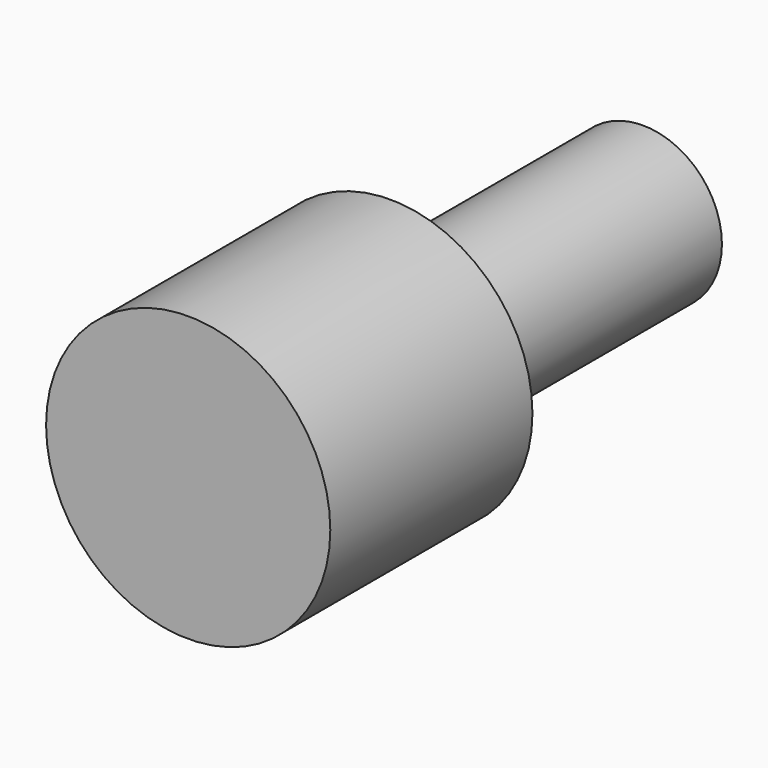
from build123d import *

# Parameters (mm, degrees)
F0_R     = 1.25
F1_DEPTH = 5
F2_R     = 2.25
F2_R_2   = 1.25
F3_DEPTH = 4


with BuildPart() as f1:
    # F0 (on Front) → F1 (new body)
    with BuildSketch(Plane.XZ):
        with Locations((-47.0185615122, -8.7691824883)):
            Circle(F0_R)
    extrude(amount=F1_DEPTH)

    # F2 (on face) → F3 (join)
    with BuildSketch(Plane.XZ.offset(5)):
        with Locations((-47.0185615122, -8.7691824883)):
            Circle(F2_R)
        with Locations((-47.0185615122, -8.7691824883)):
            Circle(F2_R_2, mode=Mode.SUBTRACT)
        with Locations((-47.0185615122, -8.7691824883)):
            Circle(F2_R_2)
    extrude(amount=F3_DEPTH)


solid = f1.part
